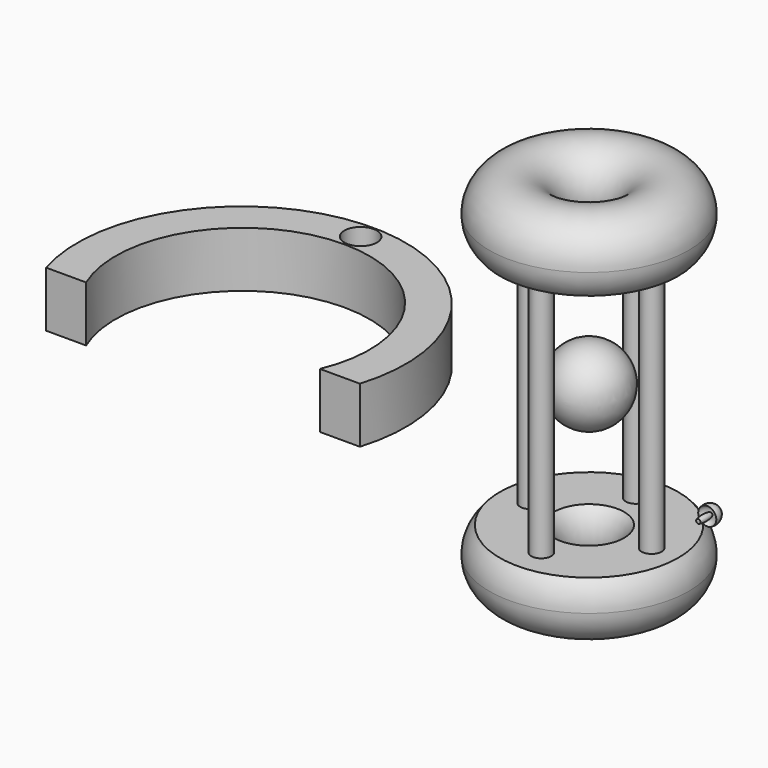
from build123d import *

# Parameters (mm, degrees)
F3_R          = 2
F4_DEPTH      = 49.5975990656
F4_DEPTH_BACK = 0.5
F7_R          = 3.25
F8_DEPTH      = 11.1


with BuildPart() as f1:
    # F0 (on Front) → F1 (revolve)
    with BuildSketch(Plane.XZ):
        with BuildLine():
            ThreePointArc((7.0281212394, -24.7987995328), (9.6276716111, -36.956149898), (19.9315936137, -30))
            ThreePointArc((19.9315936137, -30), (19.3877435117, -27.1960779975), (17.835065988, -24.7987995328))
            Line((17.835065988, -24.7987995328), (7.0281212394, -24.7987995328))
        make_face()
    revolve(axis=Axis((0, 0, -16.2828955799), (0, 0, -1)))


with BuildPart() as f2_1:
    # F2: instance of F1
    add(f1.part.mirror(Plane.XY))


with BuildPart() as f1_1:
    add(f1.part)

    add(f2_1.part)  # F4 merges F2_1
    # F3 (on face) → F4 (join, two sides)
    with BuildSketch(Plane.XY.offset(-24.7987995328)) as f4_sk:
        with Locations((0, 11.7024071515)):
            Circle(F3_R)
        with Locations((12.5100398436, 0)):
            Circle(F3_R)
        with Locations((0, -11.9341444224)):
            Circle(F3_R)
        with Locations((-11.7533719167, 0)):
            Circle(F3_R)
    extrude(amount=F4_DEPTH)
    extrude(f4_sk.sketch, amount=-F4_DEPTH_BACK)


with BuildPart() as f6:
    # F5 (on Top) → F6 (revolve)
    with BuildSketch(Plane.XY):
        with BuildLine():
            Line((0, 7.5), (0, -7.5))
            ThreePointArc((0, -7.5), (7.5, 0), (0, 7.5))
        make_face()
    revolve(axis=Axis((0, 0, 0), (0, 1, 0)))


with BuildPart() as f8:
    # F7 (on Top) → F8 (new body)
    with BuildSketch(Plane.XY):
        with BuildLine():
            Line((-22.6692205305, -38.9067605138), (-14.6692205305, -38.9067605138))
            ThreePointArc((-14.6692205305, -38.9067605138), (-46.0296256033, 3.5605389326), (-77.4330916522, -38.8749279403))
            Line((-77.4330916522, -38.8749279403), (-69.4330916522, -38.8749279403))
            ThreePointArc((-69.4330916522, -38.8749279403), (-46.02715743, -3.6354381615), (-22.6692205305, -38.9067605138))
        make_face()
        with Locations((-45.6537306309, 0)):
            Circle(F7_R, mode=Mode.SUBTRACT)
    extrude(amount=F8_DEPTH)


with BuildPart() as f10:
    # F9 (on Top) → F10 (revolve)
    with BuildSketch(Plane.XY):
        with BuildLine():
            ThreePointArc((44.134542346, -23.3684144914), (43.8305228667, -21.598063027), (42.329279402, -20.6117364019))
            Line((42.329279402, -20.6117364019), (42.329279402, -25.6117364019))
            Line((42.329279402, -25.6117364019), (42.7653193474, -25.6117364019))
            ThreePointArc((42.7653193474, -25.6117364019), (42.9429302471, -24.1166514158), (42.7653193474, -22.6215664297))
            ThreePointArc((42.7653193474, -22.6215664297), (43.606892133, -22.7072277762), (44.134542346, -23.3684144914))
        make_face()
    revolve(axis=Axis((42.329279402, -23.1117364019, 0), (0, -1, 0)))


solid = Compound([f1_1.part, f6.part, f8.part, f10.part])
